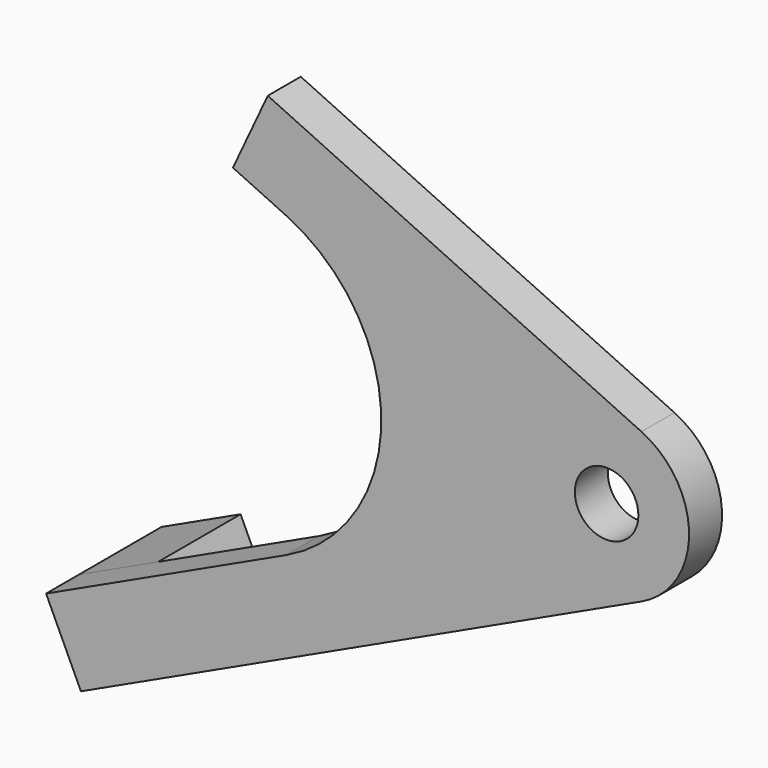
from build123d import *

# Parameters (mm, degrees)
F0_R     = 1.9558
F1_DEPTH = 2.54
F3_DEPTH = 6.35


with BuildPart() as f1:
    # F0 (on Front) → F1 (new body)
    with BuildSketch(Plane.XZ):
        with BuildLine():
            ThreePointArc((2.146901, -4.604044), (5.08, 0), (2.146901, 4.604044))
            Line((2.146901, 4.604044), (-20.873317, 15.338547))
            Line((-20.873317, 15.338547), (-23.020218, 10.734504))
            Line((-23.020218, 10.734504), (-19.746807, 9.208087))
            ThreePointArc((-19.746807, 9.208087), (-13.880608, 0), (-19.746807, -9.208087))
            Line((-19.746807, -9.208087), (-34.530327, -16.101756))
            Line((-34.530327, -16.101756), (-32.383426, -20.705799))
            Line((-32.383426, -20.705799), (2.146901, -4.604044))
        make_face()
        Circle(F0_R, mode=Mode.SUBTRACT)
    extrude(amount=-F1_DEPTH)

    # F2 (on face) → F3 (join)
    with BuildSketch(Plane(origin=(0, 2.54, 0), x_dir=(-1, 0, 0), z_dir=(0, 1, 0))):
        Polygon((32.383426, -20.705799), (34.530327, -16.101756), (29.658666, -13.830063), (27.511766, -18.434107), align=None)
    extrude(amount=F3_DEPTH)


solid = f1.part
